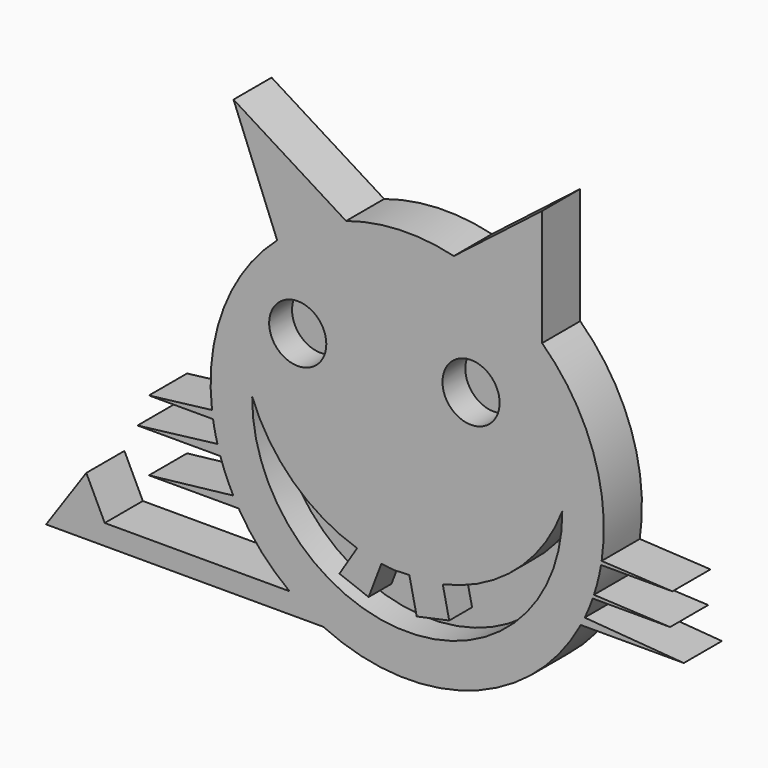
from build123d import *

# Parameters (mm, degrees)
F1_DEPTH = 6.35
F2_R     = 3.81
F3_DEPTH = 3.81


with BuildPart() as f1:
    # F0 (on Front) → F1 (new body)
    with BuildSketch(Plane.XZ):
        with BuildLine():
            Line((-23.164801, 34.290001), (-17.347254, 19.659236))
            ThreePointArc((-17.347254, 19.659236), (-24.492601, 9.355494), (-26.036071, -3.088009))
            Line((-26.036071, -3.088009), (-34.442399, -4.113362))
            Line((-34.442399, -4.113362), (-25.89388, -4.113362))
            ThreePointArc((-25.89388, -4.113362), (-25.638984, -5.482267), (-25.311773, -6.835709))
            Line((-25.311773, -6.835709), (-35.966402, -8.135295))
            Line((-35.966402, -8.135295), (-24.924481, -8.135295))
            ThreePointArc((-24.924481, -8.135295), (-24.14935, -10.208901), (-23.202056, -12.209725))
            Line((-23.202056, -12.209725), (-34.442401, -13.489514))
            Line((-34.442401, -13.489514), (-22.482121, -13.489514))
            ThreePointArc((-22.482121, -13.489514), (-19.455276, -17.575694), (-15.696574, -21.000722))
            Line((-15.696574, -21.000722), (-40.337007, -21.000722))
            Line((-40.337007, -21.000722), (-42.792861, -15.918796))
            Line((-42.792861, -15.918796), (-48.1584, -23.711554))
            Line((-48.1584, -23.711554), (-11.188163, -23.711554))
            ThreePointArc((-11.188163, -23.711554), (8.251092, -24.886387), (23.137988, -12.330704))
            Line((23.137988, -12.330704), (36.880807, -12.330704))
            Line((36.880807, -12.330704), (23.661428, -11.293785))
            ThreePointArc((23.661428, -11.293785), (24.231756, -10.011733), (24.732677, -8.701004))
            Line((24.732677, -8.701004), (35.052002, -8.701004))
            Line((35.052002, -8.701004), (24.898263, -8.215185))
            ThreePointArc((24.898263, -8.215185), (25.442691, -6.331056), (25.844756, -4.411501))
            Line((25.844756, -4.411501), (35.356801, -4.411501))
            Line((35.356801, -4.411501), (25.925817, -3.907015))
            ThreePointArc((25.925817, -3.907015), (24.780888, 8.562731), (17.9832, 19.079237))
            Line((17.9832, 19.079237), (17.9832, 34.5948))
            Line((17.9832, 34.5948), (6.210996, 25.472265))
            ThreePointArc((6.210996, 25.472265), (-1.012157, 26.199014), (-8.15771, 24.917153))
            Line((-8.15771, 24.917153), (-23.164801, 34.290001))
        make_face()
    extrude(amount=F1_DEPTH)

    # F2 (on face) → F3 (cut)
    with BuildSketch(Plane.XZ.offset(6.35)):
        with Locations((8.507902, 10.2108)):
            Circle(F2_R)
        with Locations((-14.601506, 9.602658)):
            Circle(F2_R)
        with BuildLine():
            ThreePointArc((-6.682666, -13.016536), (-15.195966, -8.000344), (-20.67365, 0.223613))
            ThreePointArc((-20.67365, 0.223613), (0, -20.674859), (20.67365, 0.223613))
            ThreePointArc((20.67365, 0.223613), (14.449008, -8.675643), (4.737722, -13.537109))
            Line((4.737722, -13.537109), (5.596831, -17.513046))
            Line((5.596831, -17.513046), (1.264551, -18.449153))
            Line((1.264551, -18.449153), (0.280041, -13.892863))
            Line((0.280041, -13.892863), (-1.722237, -13.983534))
            ThreePointArc((-1.722237, -13.983534), (-2.586056, -13.898947), (-3.445889, -13.780519))
            Line((-3.445889, -13.780519), (-5.150155, -18.254217))
            Line((-5.150155, -18.254217), (-9.041306, -16.771873))
            Line((-9.041306, -16.771873), (-6.682666, -13.016536))
        make_face()
    extrude(amount=-F3_DEPTH, mode=Mode.SUBTRACT)


solid = f1.part
